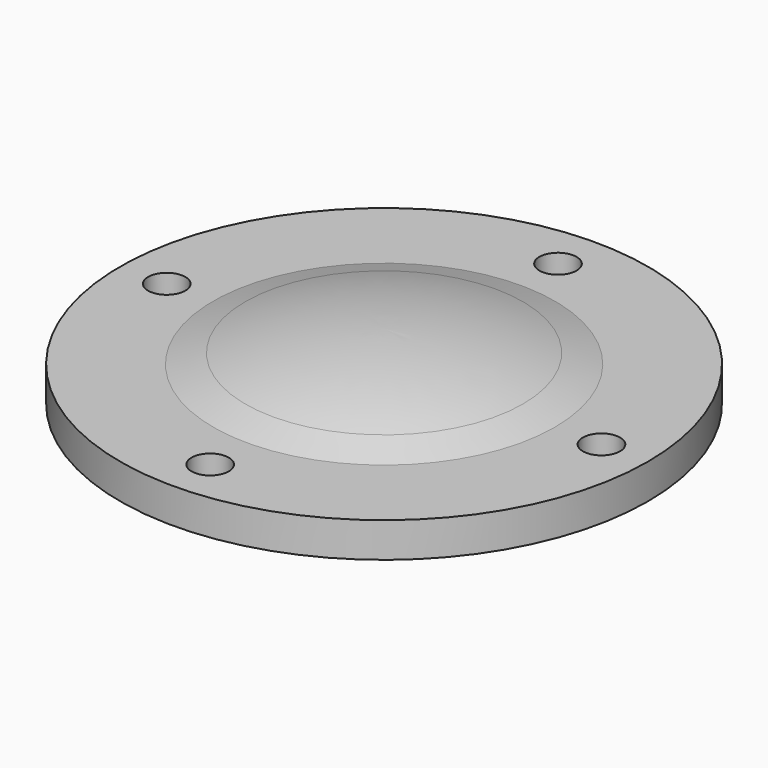
from build123d import *

# Parameters (mm, degrees)
F2_R     = 0.6
F3_DEPTH = 25


with BuildPart() as f1:
    # F0 (on Front) → F1 (revolve)
    with BuildSketch(Plane.XZ):
        with BuildLine():
            ThreePointArc((0, 4), (2.807, 3.715712), (5.5, 2.874393))
            Line((5.5, 2.874393), (8.5, 2.874393))
            Line((8.5, 2.874393), (8.5, 4))
            Line((8.5, 4), (5.5, 4))
            Line((5.5, 4), (4.468238, 4.319038))
            ThreePointArc((4.468238, 4.319038), (2.259915, 4.828782), (0, 5))
            Line((0, 5), (0, 4))
        make_face()
    revolve(axis=Axis((0, 0, 4.5), (0, 0, 1)))

    # F2 (on face) → F3 (cut)
    with BuildSketch(Plane.XY.offset(4)):
        with Locations((0, 7)):
            Circle(F2_R)
        with Locations((-7, 0)):
            Circle(F2_R)
        with Locations((0, -7)):
            Circle(F2_R)
        with Locations((7, 0)):
            Circle(F2_R)
    extrude(amount=-F3_DEPTH, mode=Mode.SUBTRACT)


solid = f1.part
